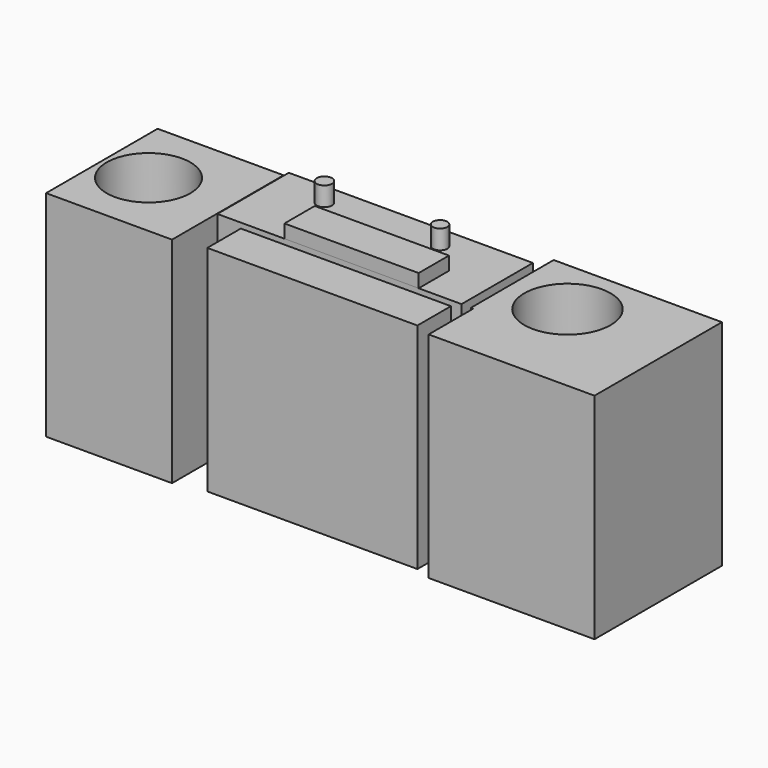
from build123d import *

# Parameters (mm, degrees)
F0_W      = 204.554647
F0_H      = 31.726852
F1_DEPTH  = 57.404
F2_R      = 10.180091
F2_R_2    = 9.580013
F3_DEPTH  = 25.4
F4_W      = 323.881835
F4_H      = 118.348116
F5_DEPTH  = 183.896
F7_W      = 278.738513
F7_H      = 55.573529
F6_R      = 57.23236
F6_W      = 167.090893
F6_H      = 184.964478
F6_R_2    = 55.507596
F8_DEPTH  = 284.48
F9_R      = 67.35509
F10_DEPTH = 10.16
F11_W     = 178.08751
F11_H     = 50.251937
F12_DEPTH = 17.78


with BuildPart() as f1:
    # F0 (on Top) → F1 (new body)
    with BuildSketch(Plane.XY):
        with Locations((-32.674968, 70.063397)):
            Rectangle(F0_W, F0_H)
    extrude(amount=F1_DEPTH)

    # F2 (on face) → F3 (join)
    with BuildSketch(Plane.XY.offset(57.404)):
        with Locations((-110.975839, 70.210218)):
            Circle(F2_R)
        with Locations((43.423027, 69.046147)):
            Circle(F2_R_2)
    extrude(amount=F3_DEPTH)

    # F4 (on face) → F5 (join)
    with BuildSketch(Plane.XY.offset(57.404)):
        with Locations((-19.826323, 40.416601)):
            Rectangle(F4_W, F4_H)
    extrude(amount=-F5_DEPTH)

    # F9 (on face) → F10 (join)
    with BuildSketch(Plane(origin=(0, 99.590659, 0), x_dir=(-1, 0, 0), z_dir=(0, 1, 0))):
        with Locations((39.309025, -22.16666)):
            Circle(F9_R)
    extrude(amount=F10_DEPTH)

    # F11 (on face) → F12 (join)
    with BuildSketch(Plane.XY.offset(57.404)):
        with Locations((-3.818918, 6.368512)):
            Rectangle(F11_W, F11_H)
    extrude(amount=F12_DEPTH)


with BuildPart() as f8:
    # F7 (on face) + F6 (on face) → F8 (new body)
    with BuildSketch(Plane.XY.offset(57.404)):
        with Locations((-2.99763, -57.003659)):
            Rectangle(F7_W, F7_H)
    with BuildSketch(Plane.XY.offset(57.404)):
        Polygon((154.830679, 118.148223), (154.830679, -18.757457), (157.965928, -18.757457), (157.965928, -93.152933), (378.026277, -93.152933), (378.026277, 118.148223), align=None)
        with Locations((234.887868, 40.947847)):
            Circle(F6_R, mode=Mode.SUBTRACT)
        with Locations((-266.012996, -0.670694)):
            Rectangle(F6_W, F6_H)
        with Locations((-288.153142, 0)):
            Circle(F6_R_2, mode=Mode.SUBTRACT)
    extrude(amount=-F8_DEPTH)


solid = Compound([f1.part, f8.part])
